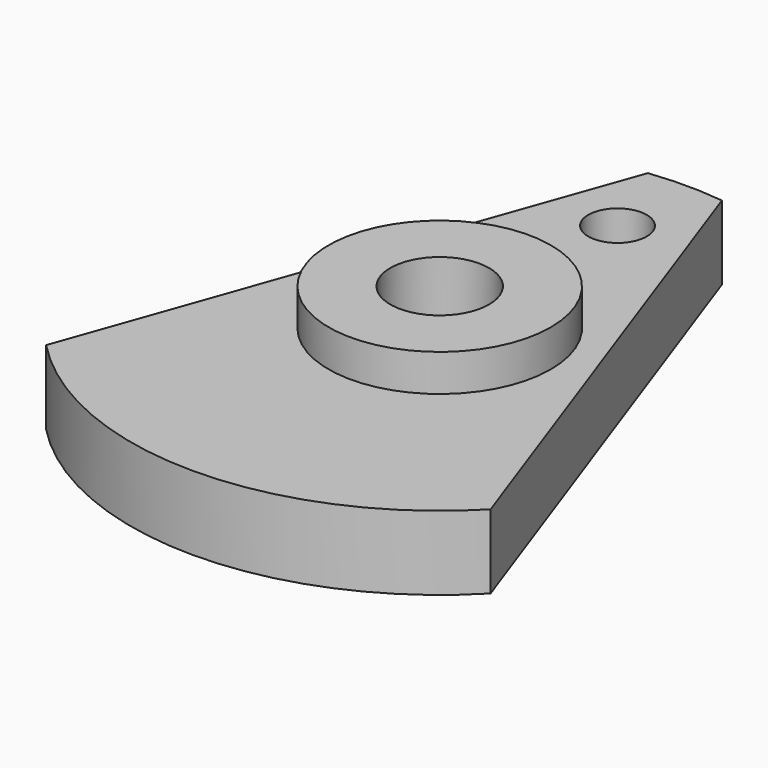
from build123d import *

# Parameters (mm, degrees)
F0_R     = 4.5
F0_R_2   = 2
F2_DEPTH = 3
F1_R     = 1.185
F3_DEPTH = 25
F4_DEPTH = 4.5


with BuildPart() as f2:
    # F0 (on Top) → F2 (new body)
    with BuildSketch(Plane.XY):
        with BuildLine():
            Line((-1.5, 12.409674), (-9, -8.674676))
            ThreePointArc((-9, -8.674676), (0, -12.5), (9, -8.674676))
            Line((9, -8.674676), (1.5, 12.409674))
            ThreePointArc((1.5, 12.409674), (0, 12.5), (-1.5, 12.409674))
        make_face()
        Circle(F0_R, mode=Mode.SUBTRACT)
        Circle(F0_R)
        Circle(F0_R_2, mode=Mode.SUBTRACT)
    extrude(amount=F2_DEPTH)

    # F1 (on Top) → F3 (cut)
    with BuildSketch(Plane.XY):
        with Locations((0, 9)):
            Circle(F1_R)
    extrude(amount=F3_DEPTH, mode=Mode.SUBTRACT)

    # F0 (on Top) → F4 (join)
    with BuildSketch(Plane.XY):
        Circle(F0_R)
        Circle(F0_R_2, mode=Mode.SUBTRACT)
    extrude(amount=F4_DEPTH)


solid = f2.part
